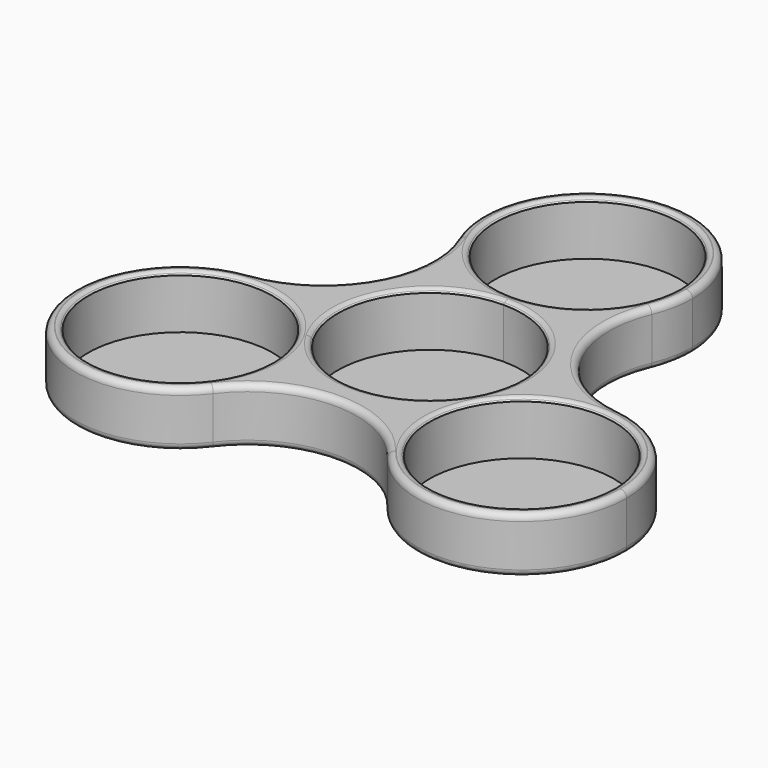
from build123d import *

# Parameters (mm, degrees)
F0_R     = 11
F1_DEPTH = 6.35
F3_DEPTH = 0.254
F4_SIZE  = 0.381
F5_R     = 0.762
F6_R     = 0.762


with BuildPart() as f1:
    # F0 (on Top) → F1 (new body)
    with BuildSketch(Plane.XY):
        with BuildLine():
            ThreePointArc((-4.301852, 11.762), (-2.184409, 11.191971), (0, 11))
            ThreePointArc((0, 11), (2.184409, 11.191971), (4.301852, 11.762))
            ThreePointArc((4.301852, 11.762), (8.644573, 14.461885), (11.546155, 18.672517))
            ThreePointArc((11.546155, 18.672517), (12.277105, 21.049477), (12.524, 23.524))
            ThreePointArc((12.524, 23.524), (-2.474523, 35.801105), (-11.546155, 18.672517))
            ThreePointArc((-11.546155, 18.672517), (-8.644573, 14.461885), (-4.301852, 11.762))
        make_face()
        with Locations((0, 23.524)):
            Circle(F0_R, mode=Mode.SUBTRACT)
        with BuildLine():
            ThreePointArc((-9.526279, -5.5), (-9.526279, 5.5), (0, 11))
            ThreePointArc((0, 11), (-2.184409, 11.191971), (-4.301852, 11.762))
            ThreePointArc((-4.301852, 11.762), (-10.846102, 6.262), (-12.337117, -2.155487))
            ThreePointArc((-12.337117, -2.155487), (-10.784736, -3.704232), (-9.526279, -5.5))
        make_face()
        with BuildLine():
            ThreePointArc((0, 11), (7.778175, 7.778175), (11, 0))
            ThreePointArc((11, 0), (10.625184, -2.84701), (9.526279, -5.5))
            ThreePointArc((9.526279, -5.5), (10.784736, -3.704232), (12.337117, -2.155487))
            ThreePointArc((12.337117, -2.155487), (10.846102, 6.262), (4.301852, 11.762))
            ThreePointArc((4.301852, 11.762), (2.184409, 11.191971), (0, 11))
        make_face()
        with BuildLine():
            ThreePointArc((8.035265, -9.606513), (8.600327, -7.48774), (9.526279, -5.5))
            ThreePointArc((9.526279, -5.5), (0, -11), (-9.526279, -5.5))
            ThreePointArc((-9.526279, -5.5), (-8.600327, -7.48774), (-8.035265, -9.606513))
            ThreePointArc((-8.035265, -9.606513), (0, -12.524), (8.035265, -9.606513))
        make_face()
        with BuildLine():
            ThreePointArc((12.337117, -2.155487), (10.784736, -3.704232), (9.526279, -5.5))
            ThreePointArc((9.526279, -5.5), (8.600327, -7.48774), (8.035265, -9.606513))
            ThreePointArc((8.035265, -9.606513), (8.202073, -14.717362), (10.397797, -19.335522))
            ThreePointArc((10.397797, -19.335522), (24.367934, -23.631547), (32.896382, -11.762))
            ThreePointArc((32.896382, -11.762), (29.767405, -3.480447), (21.943952, 0.663005))
            ThreePointArc((21.943952, 0.663005), (16.846646, 0.255478), (12.337117, -2.155487))
        make_face()
        with Locations((20.372382, -11.762)):
            Circle(F0_R, mode=Mode.SUBTRACT)
        with BuildLine():
            ThreePointArc((-8.035265, -9.606513), (-8.600327, -7.48774), (-9.526279, -5.5))
            ThreePointArc((-9.526279, -5.5), (-10.784736, -3.704232), (-12.337117, -2.155487))
            ThreePointArc((-12.337117, -2.155487), (-16.846646, 0.255478), (-21.943952, 0.663005))
            ThreePointArc((-21.943952, 0.663005), (-31.218484, -18.024), (-10.397797, -19.335522))
            ThreePointArc((-10.397797, -19.335522), (-8.502835, -15.757552), (-7.848382, -11.762))
            ThreePointArc((-7.848382, -11.762), (-7.89519, -10.680213), (-8.035265, -9.606513))
        make_face()
        with Locations((-20.372382, -11.762)):
            Circle(F0_R, mode=Mode.SUBTRACT)
        with BuildLine():
            ThreePointArc((-12.337117, -2.155487), (-10.846102, 6.262), (-4.301852, 11.762))
            ThreePointArc((-4.301852, 11.762), (-8.644573, 14.461885), (-11.546155, 18.672517))
            ThreePointArc((-11.546155, 18.672517), (-12.27591, 7.0875), (-21.943952, 0.663005))
            ThreePointArc((-21.943952, 0.663005), (-16.846646, 0.255478), (-12.337117, -2.155487))
        make_face()
        with BuildLine():
            ThreePointArc((11.546155, 18.672517), (8.644573, 14.461885), (4.301852, 11.762))
            ThreePointArc((4.301852, 11.762), (10.846102, 6.262), (12.337117, -2.155487))
            ThreePointArc((12.337117, -2.155487), (16.846646, 0.255478), (21.943952, 0.663005))
            ThreePointArc((21.943952, 0.663005), (12.27591, 7.0875), (11.546155, 18.672517))
        make_face()
        with BuildLine():
            ThreePointArc((10.397797, -19.335522), (8.202073, -14.717362), (8.035265, -9.606513))
            ThreePointArc((8.035265, -9.606513), (0, -12.524), (-8.035265, -9.606513))
            ThreePointArc((-8.035265, -9.606513), (-7.89519, -10.680213), (-7.848382, -11.762))
            ThreePointArc((-7.848382, -11.762), (-8.502835, -15.757552), (-10.397797, -19.335522))
            ThreePointArc((-10.397797, -19.335522), (0, -14.175), (10.397797, -19.335522))
        make_face()
    extrude(amount=F1_DEPTH)

    # F2 (on Top) → F3 (join)
    with BuildSketch(Plane.XY):
        with BuildLine():
            ThreePointArc((21.943952, 0.663005), (12.27591, 7.0875), (11.546155, 18.672517))
            ThreePointArc((11.546155, 18.672517), (0, 36.048), (-11.546155, 18.672517))
            ThreePointArc((-11.546155, 18.672517), (-12.27591, 7.0875), (-21.943952, 0.663005))
            ThreePointArc((-21.943952, 0.663005), (-31.218484, -18.024), (-10.397797, -19.335522))
            ThreePointArc((-10.397797, -19.335522), (0, -14.175), (10.397797, -19.335522))
            ThreePointArc((10.397797, -19.335522), (31.218484, -18.024), (21.943952, 0.663005))
        make_face()
    extrude(amount=-F3_DEPTH)

    # F4
    f4_edges = [f1.edges().sort_by_distance(p)[0] for p in [
        (-9.526279, 5.5, 6.35),
        (9.372382, -11.762, 6.35),
        (-31.372382, -11.762, 6.35),
        (-11, 23.524, 6.35),
    ]]
    chamfer(f4_edges, length=F4_SIZE)

    # F5
    f5_edges = [f1.edges().sort_by_distance(p)[0] for p in [
        (-9.856235, 5.6905, 6.35),
        (-31.218484, -18.024, 6.35),
        (0, -14.175, 6.35),
        (31.218484, -18.024, 6.35),
        (12.27591, 7.0875, 6.35),
        (0, 36.048, 6.35),
        (-12.27591, 7.0875, 6.35),
        (8.991382, -11.762, 6.35),
        (-31.753382, -11.762, 6.35),
        (-11.381, 23.524, 6.35),
    ]]
    fillet(f5_edges, radius=F5_R)

    # F6
    f6_edges = [f1.edges().sort_by_distance(p)[0] for p in [
        (31.218484, -18.024, -0.254),
        (12.27591, 7.0875, -0.254),
        (0, 36.048, -0.254),
        (-12.27591, 7.0875, -0.254),
        (-31.218484, -18.024, -0.254),
        (0, -14.175, -0.254),
    ]]
    fillet(f6_edges, radius=F6_R)


solid = f1.part
